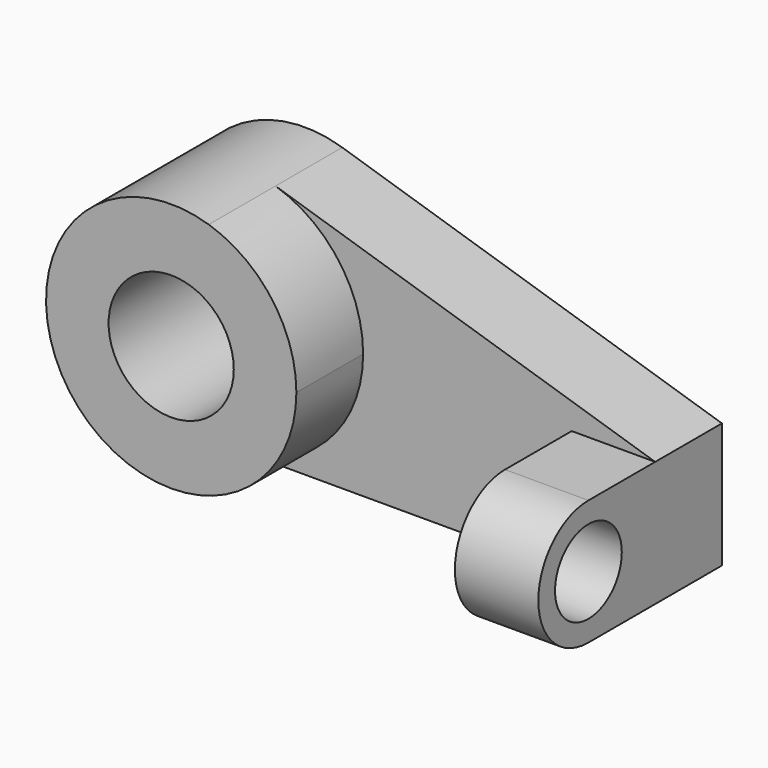
from build123d import *

# Parameters (mm, degrees)
F0_R     = 7.5
F1_DEPTH = 10
F2_DEPTH = 20
F3_R     = 5
F4_DEPTH = 10


with BuildPart() as f1:
    # F0 (on Front) → F1 (new body)
    with BuildSketch(Plane.XZ):
        with BuildLine():
            ThreePointArc((0, -15), (10.606602, -10.606602), (15, 0))
            ThreePointArc((15, 0), (12.093387, 8.87412), (4.5, 14.309088))
            ThreePointArc((4.5, 14.309088), (-14.826266, 2.276365), (0, -15))
        make_face()
        Circle(F0_R, mode=Mode.SUBTRACT)
        with BuildLine():
            ThreePointArc((4.5, 14.309088), (12.093387, 8.87412), (15, 0))
            ThreePointArc((15, 0), (10.606602, -10.606602), (0, -15))
            Line((0, -15), (50, -15))
            Line((50, -15), (50, 0))
            Line((50, 0), (4.5, 14.309088))
        make_face()
    extrude(amount=F1_DEPTH)

    # F0 (on Front) → F2 (join)
    with BuildSketch(Plane.XZ):
        with BuildLine():
            ThreePointArc((0, -15), (10.606602, -10.606602), (15, 0))
            ThreePointArc((15, 0), (12.093387, 8.87412), (4.5, 14.309088))
            ThreePointArc((4.5, 14.309088), (-14.826266, 2.276365), (0, -15))
        make_face()
        Circle(F0_R, mode=Mode.SUBTRACT)
    extrude(amount=F2_DEPTH)

    # F3 (on face) → F4 (join)
    with BuildSketch(Plane.YZ.offset(50)):
        with BuildLine():
            Line((-20, -15), (0, -15))
            Line((0, -15), (0, 0))
            Line((0, 0), (-20, 0))
            ThreePointArc((-20, 0), (-27.5, -7.5), (-20, -15))
        make_face()
        with Locations((-20, -7.5)):
            Circle(F3_R, mode=Mode.SUBTRACT)
    extrude(amount=-F4_DEPTH)


solid = f1.part
